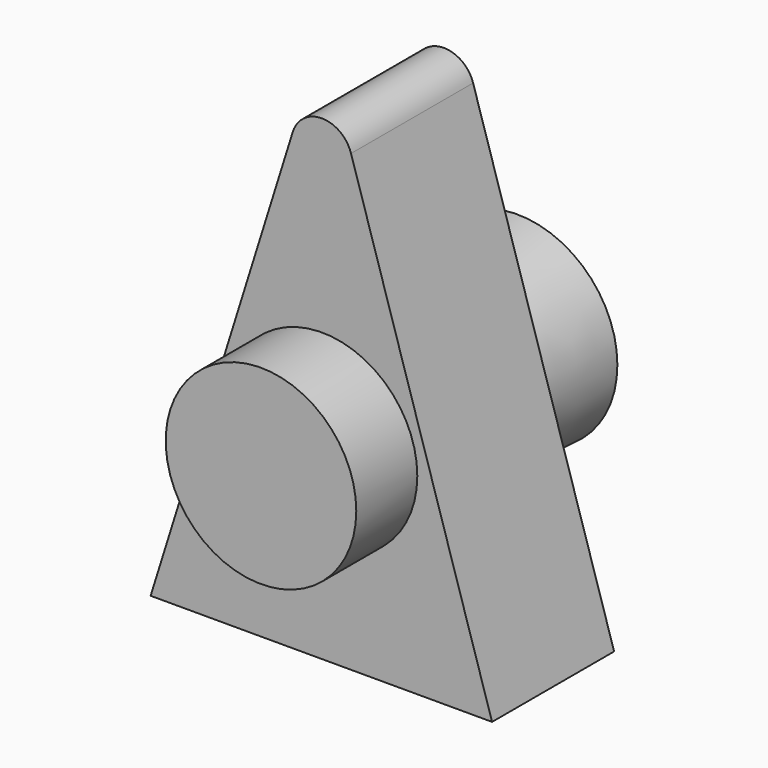
from build123d import *

# Parameters (mm, degrees)
F0_R     = 6.2452743357
F3_DEPTH = 10
F1_DEPTH = 15
F2_DEPTH = 6
F2_TAPER = -3
F4_R     = 0.351908714
F5_DEPTH = 7.938971743


with BuildPart() as f3:
    # F0 (on Front) → F3 (new body)
    with BuildSketch(Plane.XZ):
        with BuildLine():
            Line((11.1467493973, -12.6034934074), (1.9026910835, 17.1933302465))
            ThreePointArc((1.9026910835, 17.1933302465), (-0.0052668021, 18.6007195565), (-1.9163570551, 17.1975866305))
            Line((-1.9163570551, 17.1975866305), (-11.2346072181, -12.6034934074))
            Line((-11.2346072181, -12.6034934074), (11.1467493973, -12.6034934074))
        make_face()
        Circle(F0_R, mode=Mode.SUBTRACT)
        Circle(F0_R)
    extrude(amount=F3_DEPTH)

    # F0 (on Front) → F1 (join)
    with BuildSketch(Plane.XZ):
        Circle(F0_R)
    extrude(amount=F1_DEPTH)

    # F0 (on Front) → F2 (join)
    with BuildSketch(Plane.XZ):
        Circle(F0_R)
    extrude(amount=-F2_DEPTH, taper=F2_TAPER)

    # F4 (on face) → F5 (join)
    with BuildSketch(Plane.XZ):
        Circle(F4_R)
    extrude(amount=-F5_DEPTH)


solid = f3.part
